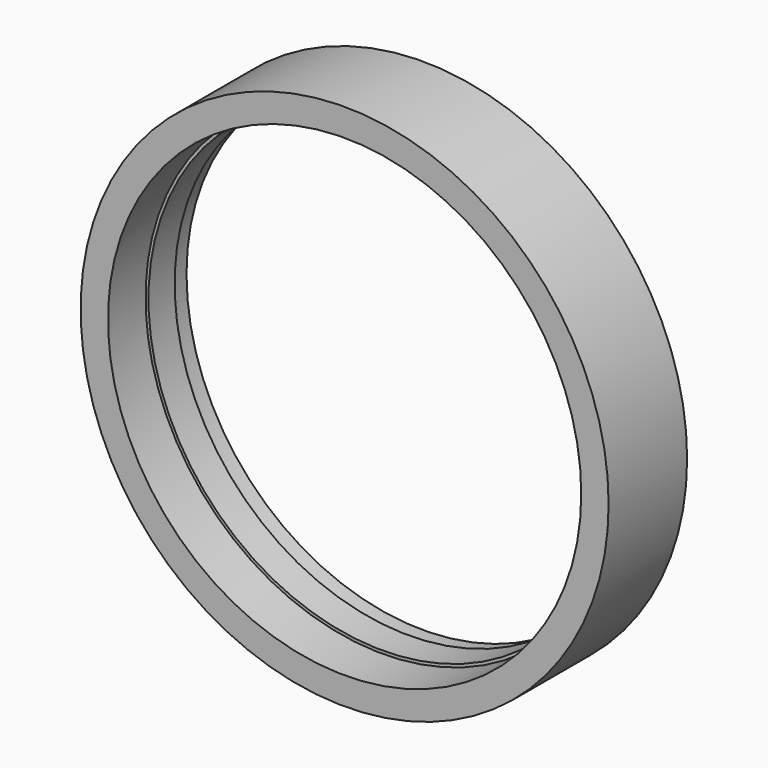
from build123d import *

# Parameters (mm, degrees)
F0_R          = 342.9
F0_R_2        = 303.53
F1_DEPTH      = 91.44
F1_DEPTH_BACK = 36
F2_R          = 307.34
F2_R_2        = 303.53
F3_DEPTH      = 60.96
F4_R          = 307.34
F4_R_2        = 303.53
F5_DEPTH      = 24


with BuildPart() as f1:
    # F0 (on Front) → F1 (new body, two sides)
    with BuildSketch(Plane.XZ) as f1_sk:
        Circle(F0_R)
        Circle(F0_R_2, mode=Mode.SUBTRACT)
    extrude(amount=F1_DEPTH)
    extrude(f1_sk.sketch, amount=-F1_DEPTH_BACK)

    # F2 (on face) → F3 (cut)
    with BuildSketch(Plane.XZ.offset(91.44)):
        Circle(F2_R)
        Circle(F2_R_2, mode=Mode.SUBTRACT)
    extrude(amount=-F3_DEPTH, mode=Mode.SUBTRACT)

    # F4 (on face) → F5 (cut)
    with BuildSketch(Plane(origin=(0, 36, 0), x_dir=(-1, 0, 0), z_dir=(0, 1, 0))):
        Circle(F4_R)
        Circle(F4_R_2, mode=Mode.SUBTRACT)
    extrude(amount=-F5_DEPTH, mode=Mode.SUBTRACT)


solid = f1.part
